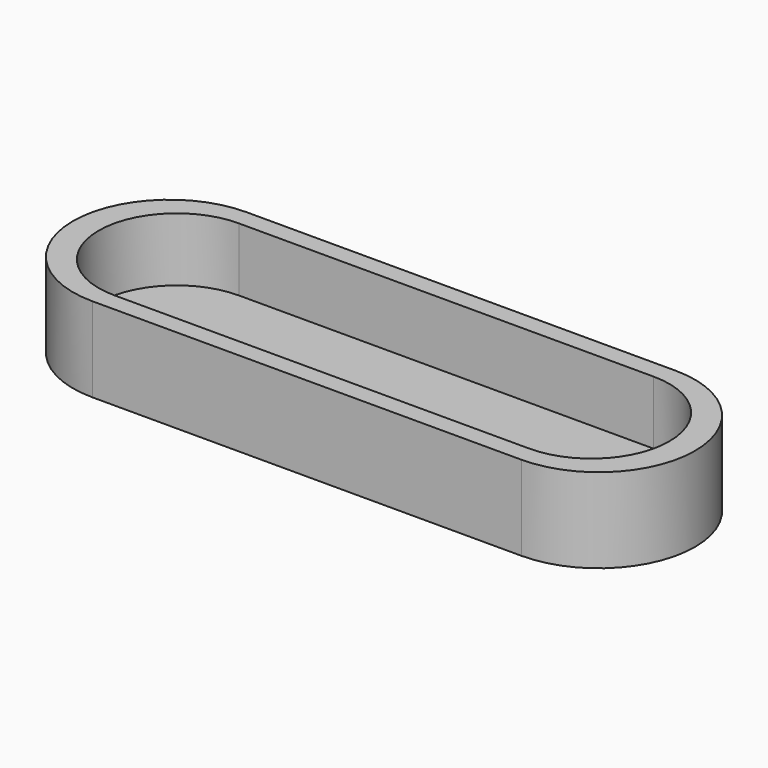
from build123d import *

# Parameters (mm, degrees)
F0_W     = 40.593308
F0_H     = 18.237574
F1_DEPTH = 8
F2_W     = 39.236986
F2_H     = 14.72901
F3_DEPTH = 6


with BuildPart() as f1:
    # F0 (on Top) → F1 (new body)
    with BuildSketch(Plane.XY):
        Rectangle(F0_W, F0_H)
        with BuildLine():
            Line((20.296654, 9.118787), (20.296654, -9.118787))
            ThreePointArc((20.296654, -9.118787), (29.415441, 0), (20.296654, 9.118787))
        make_face()
        with BuildLine():
            ThreePointArc((-20.296654, 9.118787), (-29.415441, 0), (-20.296654, -9.118787))
            Line((-20.296654, -9.118787), (-20.296654, 9.118787))
        make_face()
    extrude(amount=F1_DEPTH)

    # F2 (on face) → F3 (cut)
    with BuildSketch(Plane.XY.offset(8)):
        Rectangle(F2_W, F2_H)
        with BuildLine():
            Line((19.618493, 7.364505), (19.618493, -7.364505))
            ThreePointArc((19.618493, -7.364505), (26.982998, 0), (19.618493, 7.364505))
        make_face()
        with BuildLine():
            ThreePointArc((-19.618493, 7.364505), (-26.982998, 0), (-19.618493, -7.364505))
            Line((-19.618493, -7.364505), (-19.618493, 7.364505))
        make_face()
    extrude(amount=-F3_DEPTH, mode=Mode.SUBTRACT)


solid = f1.part
